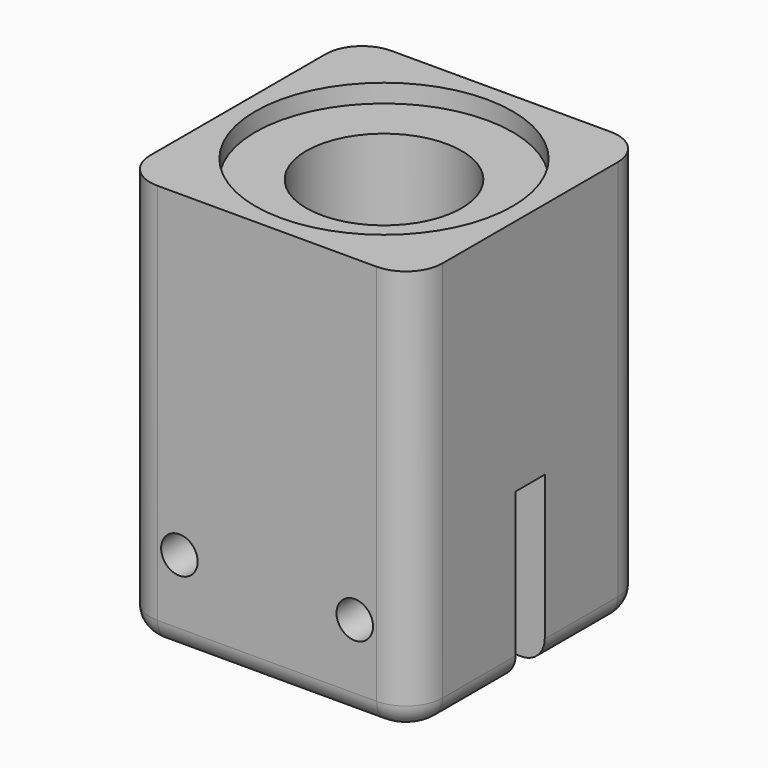
from build123d import *

# Parameters (mm, degrees)
F1_DEPTH  = 36.093
F3_D      = 13.49248
F4_R      = 11.176
F5_DEPTH  = 1.5875
F7_DEPTH  = 25.401
F8_R      = 1.5875
F9_DEPTH  = 25.401
F10_R     = 2
F11_DEPTH = 0.845
F12_DEPTH = 0.845
F13_DEPTH = 0.889


with BuildPart() as f1:
    # F0 (on Top) → F1 (new body)
    with BuildSketch(Plane.XY):
        with BuildLine():
            Line((9.525, 12.7), (-9.525, 12.7))
            ThreePointArc((-9.525, 12.7), (-11.7700640303, 11.7700640303), (-12.7, 9.525))
            Line((-12.7, 9.525), (-12.7, -9.525))
            ThreePointArc((-12.7, -9.525), (-11.7700640303, -11.7700640303), (-9.525, -12.7))
            Line((-9.525, -12.7), (9.525, -12.7))
            ThreePointArc((9.525, -12.7), (11.7700640303, -11.7700640303), (12.7, -9.525))
            Line((12.7, -9.525), (12.7, 9.525))
            ThreePointArc((12.7, 9.525), (11.7700640303, 11.7700640303), (9.525, 12.7))
        make_face()
    extrude(amount=F1_DEPTH)

    # F3 (through all)
    with Locations(Plane.XY.offset(36.093)):
        with Locations((0, 0)):
            Hole(F3_D / 2)

    # F4 (on face) → F5 (cut)
    with BuildSketch(Plane.XY.offset(36.093)):
        Circle(F4_R)
    extrude(amount=-F5_DEPTH, mode=Mode.SUBTRACT)

    # F6 (on face) → F7 (cut, through all)
    with BuildSketch(Plane(origin=(-12.7, 0, 0), x_dir=(0, -1, 0), z_dir=(-1, 0, 0))):
        Polygon((1.5875, 15.4555), (0, 15.4555), (-1.5875, 15.4555), (-1.5875, -0.7945992402), (1.5875, -1.3757834677), align=None)
    extrude(amount=-F7_DEPTH, mode=Mode.SUBTRACT)

    # F8 (on face) → F9 (cut, through all)
    with BuildSketch(Plane.XZ.offset(12.7)):
        with Locations((-7.62, 7.62)):
            Circle(F8_R)
        with Locations((7.62, 7.62)):
            Circle(F8_R)
    extrude(amount=-F9_DEPTH, mode=Mode.SUBTRACT)

    # F10
    f10_edges = [f1.edges().sort_by_distance(p)[0] for p in [
        (-12.7, 5.55625, 0),
        (-12.7, -5.55625, 0),
    ]]
    fillet(f10_edges, radius=F10_R)

    # F11 (cut): a face of the model
    f11_faces = [f1.faces().sort_by_distance(p)[0] for p in [
        (0, 12.3407897552, 36.093),
    ]]
    extrude(f11_faces, amount=-F11_DEPTH, mode=Mode.SUBTRACT)

    # F12 (cut): a face of the model
    f12_faces = [f1.faces().sort_by_distance(p)[0] for p in [
        (-10.8598949845, 0, 34.5055),
    ]]
    extrude(f12_faces, amount=-F12_DEPTH, mode=Mode.SUBTRACT)

    # F13 (add): faces of the model
    f13_faces = [f1.faces().sort_by_distance(p)[0] for p in [
        (9.6914617735, 0, 15.4555),
        (-9.6914617735, 0, 15.4555),
    ]]
    extrude(f13_faces, amount=F13_DEPTH)


solid = f1.part
